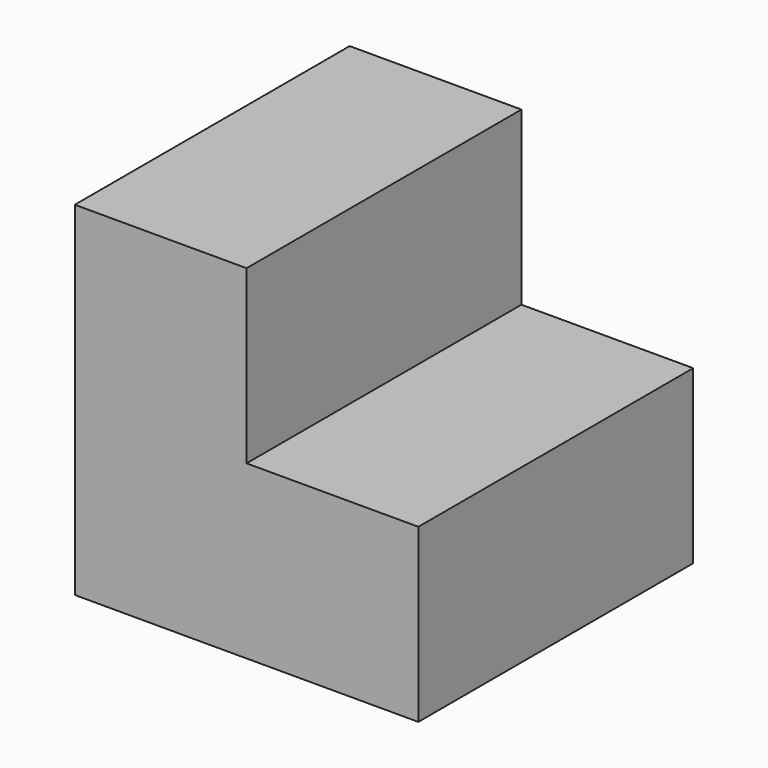
from build123d import *

# Parameters (mm, degrees)
F0_W     = 50.8
F0_H     = 50.8
F1_DEPTH = 50.8


with BuildPart() as f1:
    # F0 (on Front) → F1 (new body, symmetric)
    with BuildSketch(Plane.XZ):
        Polygon((-52.229806, 47.116514), (-52.229806, -54.483486), (-1.429806, -54.483486), (-1.429806, -3.683486), (-1.429806, 47.116514), align=None)
        with Locations((23.970194, -29.083486)):
            Rectangle(F0_W, F0_H)
    extrude(amount=F1_DEPTH, both=True)


solid = f1.part
